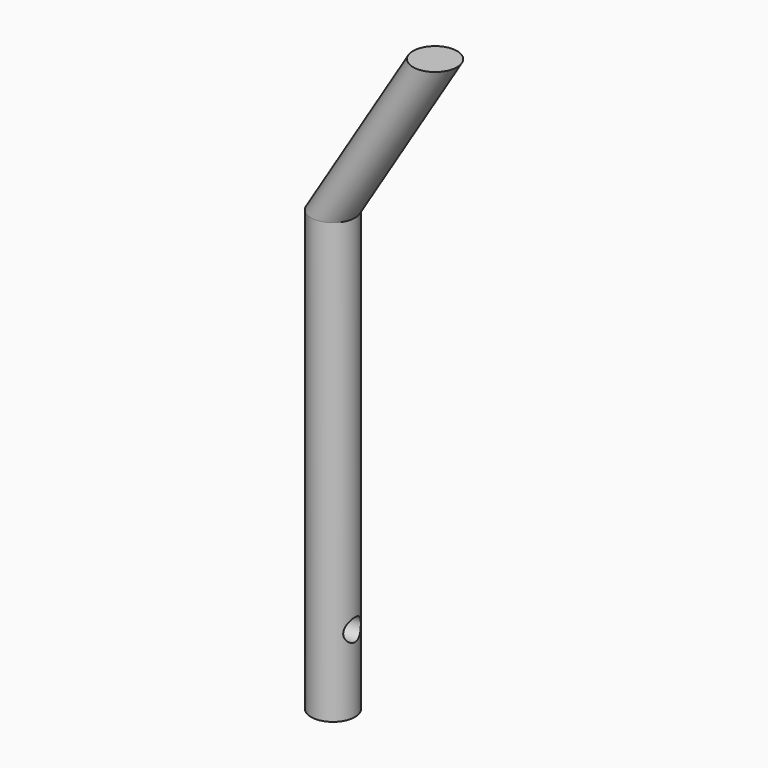
from build123d import *

# Parameters (mm, degrees)
F0_R      = 10
F1_DEPTH  = 200
F2_R      = 5
F3_DEPTH  = 12.5
F1_FACE_R = 10


with BuildPart() as f1:
    # F0 (on Top) → F1 (new body)
    with BuildSketch(Plane.XY):
        Circle(F0_R)
    extrude(amount=F1_DEPTH)

    # F2 (on Right) → F3 (cut, symmetric)
    with BuildSketch(Plane.YZ):
        with Locations((0, 35)):
            Circle(F2_R)
    extrude(amount=F3_DEPTH, both=True, mode=Mode.SUBTRACT)

    # F5: sweep along a path in F4
    with BuildLine(Plane.XZ) as f5_path:
        Line((0, 200), (46.467885375, 275.4771232605))
    # F1_face (on face) → F5 (sweep)
    with BuildSketch(Plane.XY.offset(200)):
        Circle(F1_FACE_R)
    sweep(path=f5_path.line)


solid = f1.part
